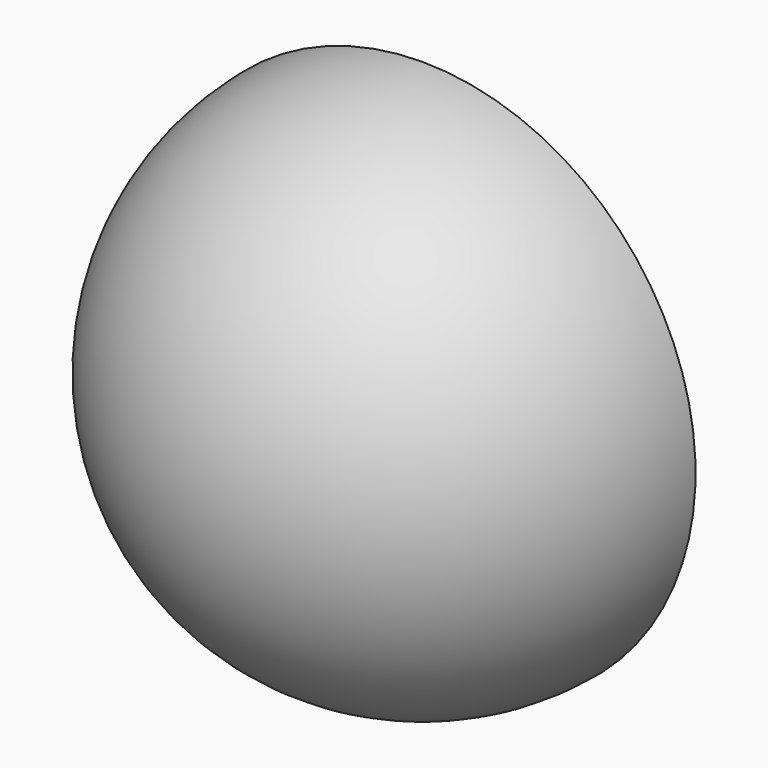
from build123d import *

# Parameters (mm, degrees)
F2_DEPTH = 24.5
F3_ANGLE = 180


with BuildPart() as f2:
    # F1 (on Front) → F2 (new body)
    with BuildSketch(Plane.XZ):
        Polygon((0, 19), (0, 0), (-19, 0), (-19, -0.75), (-0.75, -0.75), (-0.75, -19), (0.75, -19), (0.75, -0.75), (19, -0.75), (19, 0.75), (0.75, 0.75), (0.75, 19), align=None)
        Polygon((-19, 0), (0, 0), (0, 19), (-0.75, 19), (-0.75, 0.75), (-19, 0.75), align=None)
    extrude(amount=F2_DEPTH)


with BuildPart() as f3:
    # F0 (on Front) → F3 (revolve)
    with BuildSketch(Plane.XZ):
        with BuildLine():
            Line((0, -20), (0, 0))
            Line((0, 0), (0, 20))
            ThreePointArc((0, 20), (-20, 0), (0, -20))
        make_face()
    revolve(axis=Axis((0, 0, 10), (0, 0, 1)), revolution_arc=F3_ANGLE)


with BuildPart() as f2_1:
    add(f2.part)

    # F4: cut F3
    add(f3.part, mode=Mode.SUBTRACT)


solid = f3.part
